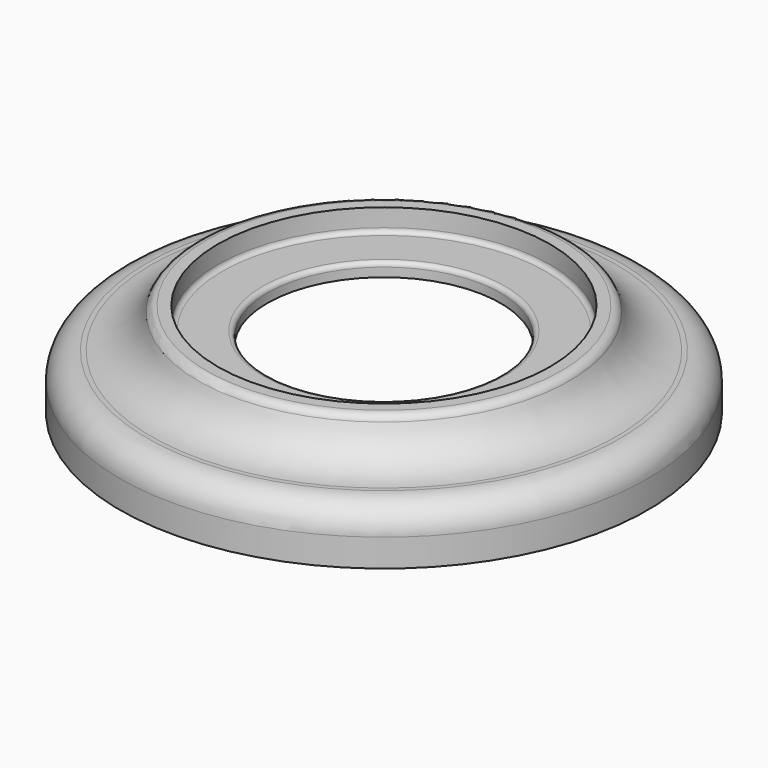
from build123d import *

# Parameters (mm, degrees)
F2_R = 0.5


with BuildPart() as f1:
    # F0 (on Front) → F1 (revolve)
    with BuildSketch(Plane.XZ):
        with BuildLine():
            ThreePointArc((-13, 23.186267), (-13.146447, 23.539821), (-13.5, 23.686267))
            Line((-13.5, 23.686267), (-18, 23.686267))
            ThreePointArc((-18, 23.686267), (-18.353553, 23.832714), (-18.5, 24.186267))
            Line((-18.5, 24.186267), (-18.5, 26.186267))
            Line((-18.5, 26.186267), (-19.742032, 26.186267))
            ThreePointArc((-19.742032, 26.186267), (-20.321899, 26.000978), (-20.68688, 25.513775))
            ThreePointArc((-20.68688, 25.513775), (-22.700098, 22.812484), (-25.901525, 21.763252))
            ThreePointArc((-25.901525, 21.763252), (-25.956736, 21.762978), (-26.011948, 21.763252))
            Line((-26.011948, 21.763252), (-26.4, 21.763252))
            ThreePointArc((-26.4, 21.763252), (-28.52132, 20.884572), (-29.4, 18.763252))
            Line((-29.4, 18.763252), (-29.4, 15.686267))
            Line((-29.4, 15.686267), (-27.85, 15.686267))
            Line((-27.85, 15.686267), (-27.85, 17.883374))
            ThreePointArc((-27.85, 17.883374), (-27.637146, 18.500141), (-27.089196, 18.854345))
            ThreePointArc((-27.089196, 18.854345), (-23.624279, 20.143438), (-20.543002, 22.186267))
            Line((-20.543002, 22.186267), (-13, 22.186267))
            Line((-13, 22.186267), (-13, 23.186267))
        make_face()
        with BuildLine():
            ThreePointArc((-26.011948, 21.763252), (-25.956736, 21.762978), (-25.901525, 21.763252))
            Line((-25.901525, 21.763252), (-26.011948, 21.763252))
        make_face()
    revolve(axis=Axis((0, 0, 20.048303), (0, 0, -1)))

    # F2
    f2_edges = [f1.edges().sort_by_distance(p)[0] for p in [
        (27.85, 0, 15.686267),
    ]]
    fillet(f2_edges, radius=F2_R)


solid = f1.part
